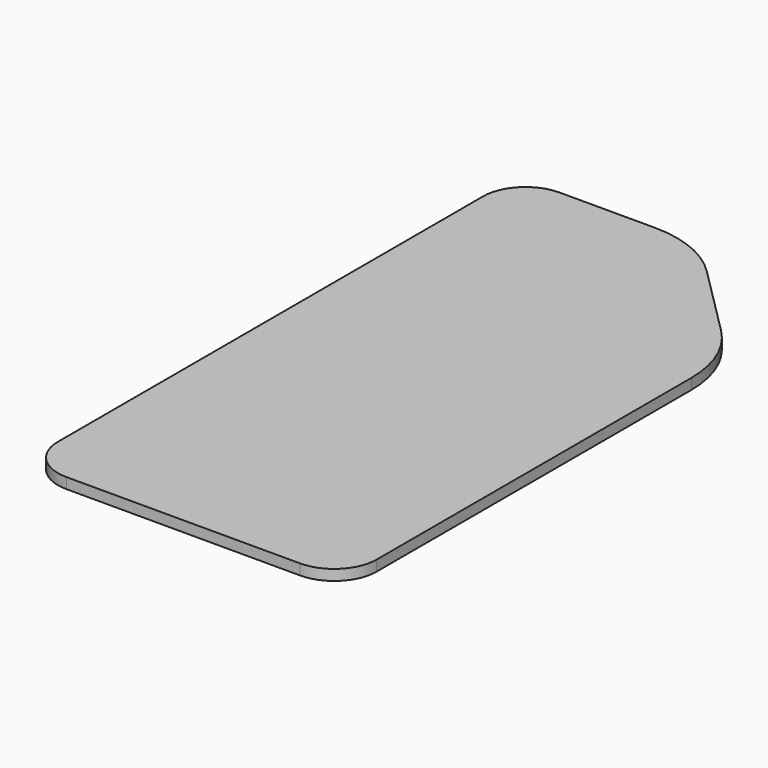
from build123d import *

# Parameters (mm, degrees)
PAD_DEPTH = 2


with BuildPart() as part:
    # Sketch → Pad (new body)
    with BuildSketch(Plane.XY):
        with BuildLine():
            Line((60, 8), (60, 82))
            ThreePointArc((60, 82), (58.434588, 89.869875), (53.976671, 96.541638))
            Line((40.54164, 109.976665), (53.976671, 96.541638))
            ThreePointArc((40.54164, 109.976665), (33.869876, 114.43458), (26.000001, 115.999989))
            Line((8.000001, 115.999989), (26.000001, 115.999989))
            ThreePointArc((8.000001, 115.999989), (2.343146, 113.656844), (0, 107.999989))
            Line((0, 107.999989), (0, 8))
            ThreePointArc((0, 8), (2.343146, 2.343146), (8, 0))
            Line((8, 0), (52, 0))
            ThreePointArc((52, 0), (57.656854, 2.343146), (60, 8))
        make_face()
    extrude(amount=PAD_DEPTH)


solid = part.part
